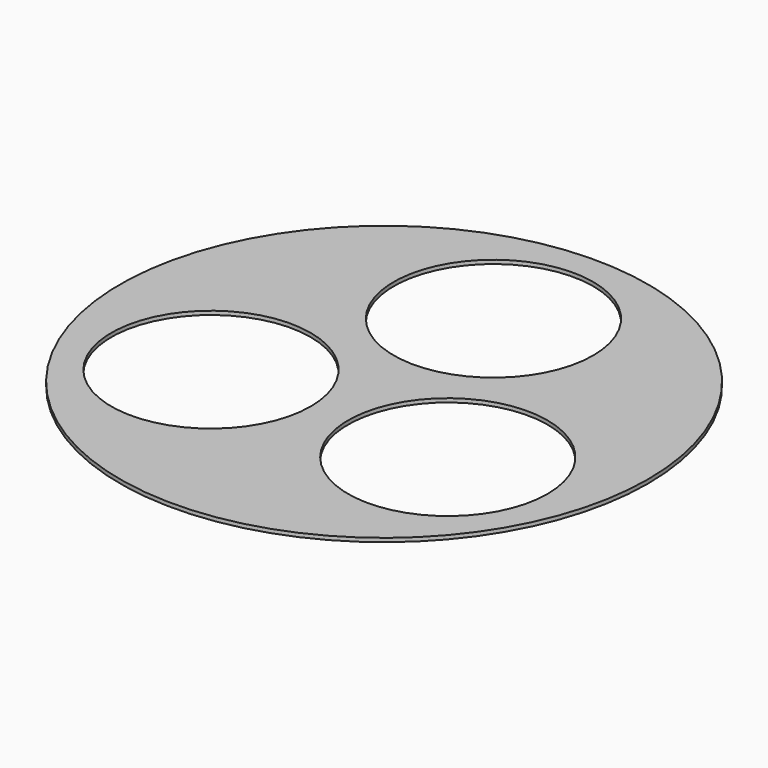
from build123d import *

# Parameters (mm, degrees)
F0_R     = 69.5
F0_R_2   = 26.25
F1_DEPTH = 1


with BuildPart() as f1:
    # F0 (on Top) → F1 (new body)
    with BuildSketch(Plane.XY):
        Circle(F0_R)
        with Locations((-31.176915, -18)):
            Circle(F0_R_2, mode=Mode.SUBTRACT)
        with Locations((31.176915, -18)):
            Circle(F0_R_2, mode=Mode.SUBTRACT)
        with Locations((0, 36)):
            Circle(F0_R_2, mode=Mode.SUBTRACT)
    extrude(amount=F1_DEPTH)


solid = f1.part
